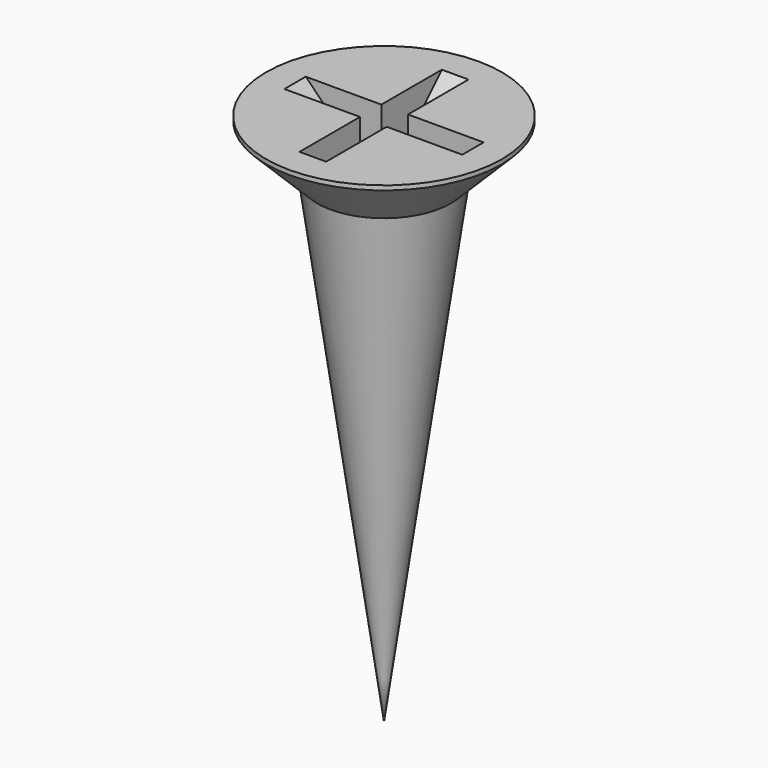
from build123d import *

# Parameters (mm, degrees)
POCKET_DEPTH       = 0.3
POLARPATTERN_COUNT = 2
POLARPATTERN_ANGLE = 90


with BuildPart() as part:
    # Sketch → Revolution (revolve)
    with BuildSketch(Plane.XZ):
        Polygon((0, 0), (0, -12), (1.5, -1.25), (2.65, -0.1), (2.65, 0), align=None)
    revolve(axis=Axis((0, 0, 0), (0, 0, 1)))

    # Sketch001 → Pocket (cut, symmetric)
    with BuildSketch(Plane.XZ):
        Polygon((-2, 0), (0, -2), (2, 0), align=None)
    pocket = extrude(amount=POCKET_DEPTH, both=True, mode=Mode.SUBTRACT)

    # PolarPattern: Pocket ×2 about axis
    polarpattern_axis = Axis((0, 0, 0), (0, 0, 1))
    for i in range(1, POLARPATTERN_COUNT):
        add(pocket.rotate(polarpattern_axis, i * POLARPATTERN_ANGLE / (POLARPATTERN_COUNT - 1)), mode=Mode.SUBTRACT)


solid = part.part
